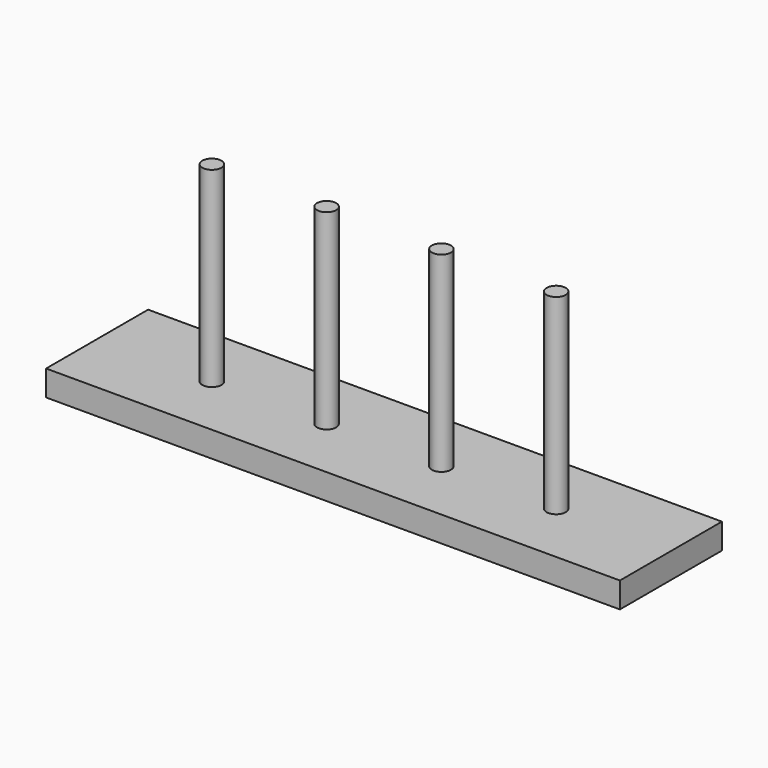
from build123d import *

# Parameters (mm, degrees)
F0_W     = 45
F0_H     = 10
F0_R     = 0.75
F1_DEPTH = 2
F2_DEPTH = 15


with BuildPart() as f1:
    # F0 (on Top) → F1 (new body)
    with BuildSketch(Plane.XY):
        Rectangle(F0_W, F0_H)
        with Locations((-13.5, 0)):
            Circle(F0_R, mode=Mode.SUBTRACT)
        with Locations((-4.5, 0)):
            Circle(F0_R, mode=Mode.SUBTRACT)
        with BuildLine():
            ThreePointArc((5.25, 0), (4.5, -0.75), (3.75, 0))
            ThreePointArc((3.75, 0), (4.5, 0.75), (5.25, 0))
        make_face(mode=Mode.SUBTRACT)
        with BuildLine():
            ThreePointArc((14.25, 0), (13.5, -0.75), (12.75, 0))
            ThreePointArc((12.75, 0), (13.5, 0.75), (14.25, 0))
        make_face(mode=Mode.SUBTRACT)
        with Locations((-13.5, 0)):
            Circle(F0_R)
        with Locations((-4.5, 0)):
            Circle(F0_R)
        with BuildLine():
            ThreePointArc((14.25, 0), (13.5, 0.75), (12.75, 0))
            ThreePointArc((12.75, 0), (13.5, -0.75), (14.25, 0))
        make_face()
        with BuildLine():
            Line((4.5, 0), (3.75, 0))
            ThreePointArc((3.75, 0), (4.5, -0.75), (5.25, 0))
            Line((5.25, 0), (4.5, 0))
        make_face()
        with BuildLine():
            ThreePointArc((5.25, 0), (4.5, 0.75), (3.75, 0))
            Line((3.75, 0), (4.5, 0))
            Line((4.5, 0), (5.25, 0))
        make_face()
    extrude(amount=-F1_DEPTH)

    # F0 (on Top) → F2 (join)
    with BuildSketch(Plane.XY):
        with Locations((-13.5, 0)):
            Circle(F0_R)
        with Locations((-4.5, 0)):
            Circle(F0_R)
        with BuildLine():
            ThreePointArc((5.25, 0), (4.5, 0.75), (3.75, 0))
            Line((3.75, 0), (4.5, 0))
            Line((4.5, 0), (5.25, 0))
        make_face()
        with BuildLine():
            Line((4.5, 0), (3.75, 0))
            ThreePointArc((3.75, 0), (4.5, -0.75), (5.25, 0))
            Line((5.25, 0), (4.5, 0))
        make_face()
        with BuildLine():
            ThreePointArc((14.25, 0), (13.5, 0.75), (12.75, 0))
            ThreePointArc((12.75, 0), (13.5, -0.75), (14.25, 0))
        make_face()
    extrude(amount=F2_DEPTH)


solid = f1.part
